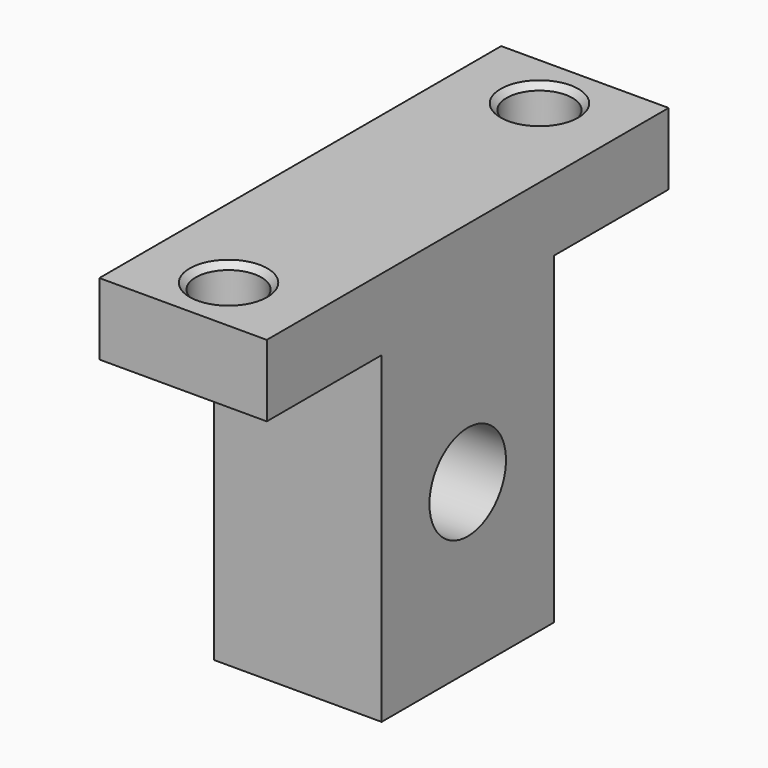
from build123d import *

# Parameters (mm, degrees)
F0_R           = 4
F1_DEPTH       = 14
F2_ANGLE       = 180
F4_D           = 5.5
F4_CSINK_D     = 6.5
F4_CSINK_ANGLE = 90


with BuildPart() as f1:
    # F0 (on Right) → F1 (new body)
    with BuildSketch(Plane.YZ):
        Polygon((-21, -19), (0, -19), (21, -19), (21, -13), (9, -13), (9, 14), (0, 14), (-9, 14), (-9, -13), (-21, -13), align=None)
        Circle(F0_R, mode=Mode.SUBTRACT)
    extrude(amount=F1_DEPTH)


with BuildPart() as f1_1:
    # F2: moved
    add(f1.part.rotate(Axis((0, 0, 0), (-1, 0, 0)), F2_ANGLE))

    # F4 (through all)
    with Locations(Plane.XY.offset(19)):
        with Locations((7, -16.25), (7, 16.25)):
            CounterSinkHole(F4_D / 2, F4_CSINK_D / 2, counter_sink_angle=F4_CSINK_ANGLE)


solid = f1_1.part
